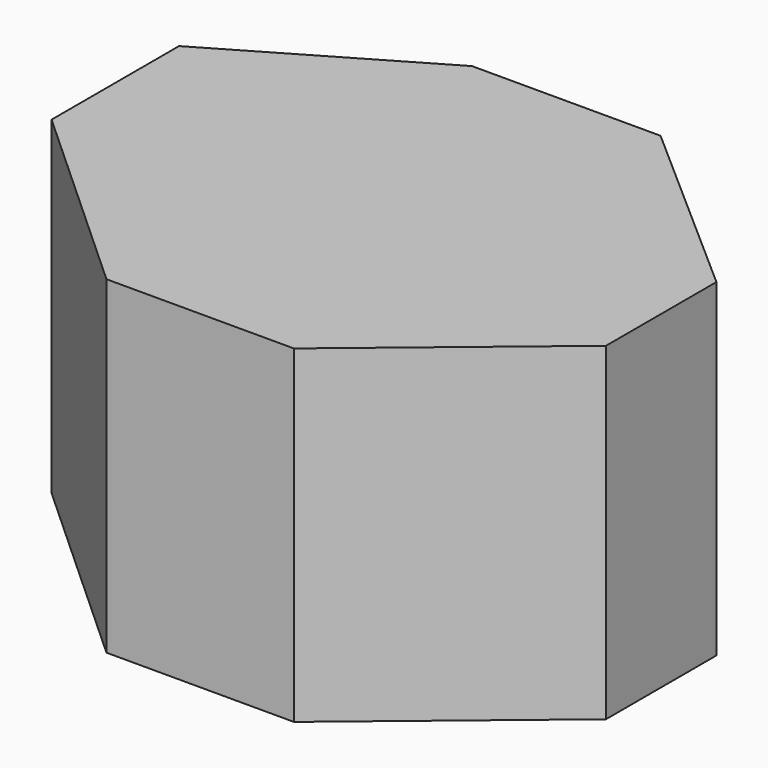
from build123d import *

# Parameters (mm, degrees)
F0_W     = 164.485968
F0_H     = 93.735796
F1_DEPTH = 131.064
F3_DEPTH = 109.474
F5_DEPTH = 175.768
F7_DEPTH = 175.514
F9_DEPTH = 113.538


with BuildPart() as f1:
    # F0 (on Front) → F1 (new body)
    with BuildSketch(Plane.XZ):
        with Locations((16.512107, -18.227907)):
            Rectangle(F0_W, F0_H)
    extrude(amount=F1_DEPTH)

    # F2 (on face) → F3 (cut)
    with BuildSketch(Plane.XY.offset(28.639991)):
        Polygon((-8.129642, -131.064), (-65.730877, -78.621335), (-65.730877, -131.064), align=None)
    extrude(amount=-F3_DEPTH, mode=Mode.SUBTRACT)

    # F4 (on face) → F5 (cut)
    with BuildSketch(Plane.XY.offset(28.639991)):
        Polygon((-65.730877, 0), (-65.730877, -33.21651), (-19.07178, 0), align=None)
    extrude(amount=-F5_DEPTH, mode=Mode.SUBTRACT)

    # F6 (on face) → F7 (cut)
    with BuildSketch(Plane.XY.offset(28.639991)):
        Polygon((-65.730877, -33.21651), (-8.77298, 0), (-19.07178, 0), align=None)
    extrude(amount=-F7_DEPTH, mode=Mode.SUBTRACT)

    # F8 (on face) → F9 (cut)
    with BuildSketch(Plane.XY.offset(28.639991)):
        Polygon((98.755091, 0), (44.991056, 0), (98.755091, -47.293574), align=None)
        Polygon((98.755091, -131.064), (98.755091, -86.671993), (45.312725, -131.064), align=None)
    extrude(amount=-F9_DEPTH, mode=Mode.SUBTRACT)


solid = f1.part
